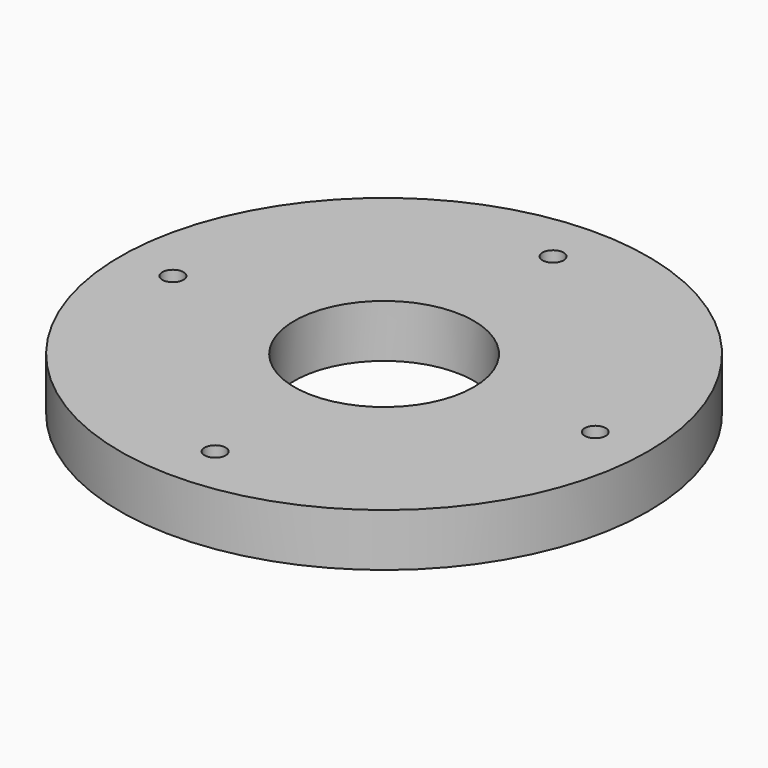
from build123d import *

# Parameters (mm, degrees)
F0_R     = 25
F0_R_2   = 8.5
F1_DEPTH = 5
F2_R     = 1
F3_DEPTH = 5.001


with BuildPart() as f1:
    # F0 (on Top) → F1 (new body)
    with BuildSketch(Plane.XY):
        Circle(F0_R)
        Circle(F0_R_2, mode=Mode.SUBTRACT)
    extrude(amount=F1_DEPTH)

    # F2 (on face) → F3 (cut, through all)
    with BuildSketch(Plane.XY.offset(5)):
        with Locations((0, 20)):
            Circle(F2_R)
        with Locations((-20, 0)):
            Circle(F2_R)
        with Locations((0, -20)):
            Circle(F2_R)
        with Locations((20, 0)):
            Circle(F2_R)
    extrude(amount=-F3_DEPTH, mode=Mode.SUBTRACT)


solid = f1.part
